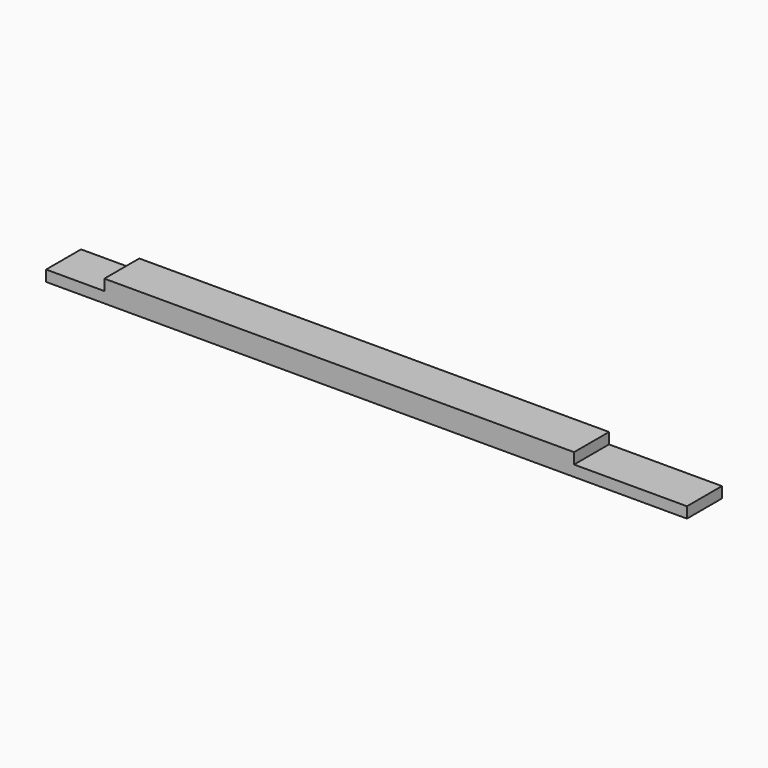
from build123d import *

# Parameters (mm, degrees)
F0_W     = 409.575
F0_H     = 38.1
F1_DEPTH = 9.525
F2_W     = 50.8
F2_H     = 38.1
F2_W_2   = 98.425
F3_DEPTH = 9.525


with BuildPart() as f1:
    # F0 (on Top) → F1 (new body, symmetric)
    with BuildSketch(Plane.XY):
        Rectangle(F0_W, F0_H)
    extrude(amount=F1_DEPTH, both=True)

    # F2 (on Top) → F3 (join, through all)
    with BuildSketch(Plane.XY):
        with Locations((-230.1875, 0)):
            Rectangle(F2_W, F2_H)
        with Locations((254, 0)):
            Rectangle(F2_W_2, F2_H)
    extrude(amount=-F3_DEPTH)


solid = f1.part
